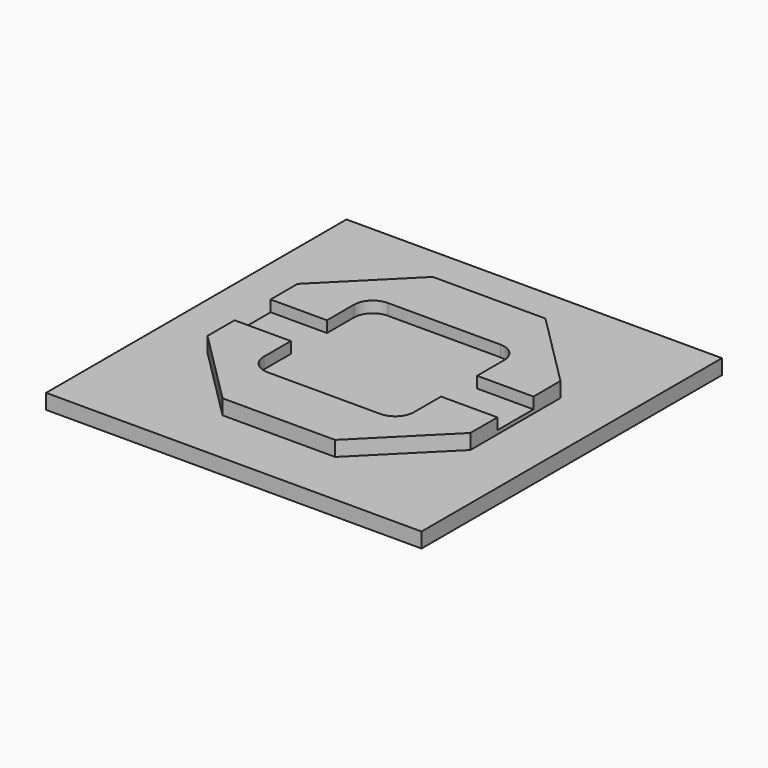
from build123d import *

# Parameters (mm, degrees)
F0_W     = 100
F0_H     = 100
F1_DEPTH = 4
F3_DEPTH = 4
F5_DEPTH = 3


with BuildPart() as f1:
    # F0 (on Top) → F1 (new body)
    with BuildSketch(Plane.XY):
        Rectangle(F0_W, F0_H)
    extrude(amount=F1_DEPTH)

    # F2 (on face) → F3 (join)
    with BuildSketch(Plane.XY.offset(4)):
        Polygon((35, -15), (35, 15), (15, 35), (0, 35), (-15, 35), (-35, 15), (-35, -15), (-15, -35), (0, -35), (15, -35), align=None)
    extrude(amount=F3_DEPTH)

    # F4 (on face) → F5 (cut)
    with BuildSketch(Plane.XY.offset(8)):
        with BuildLine():
            Line((15, 20), (-15, 20))
            ThreePointArc((-15, 20), (-18.535534, 18.535534), (-20, 15))
            Line((-20, 15), (-20, 6))
            Line((-20, 6), (-35, 6))
            Line((-35, 6), (-35, -6))
            Line((-35, -6), (-20, -6))
            Line((-20, -6), (-20, -15))
            ThreePointArc((-20, -15), (-18.535534, -18.535534), (-15, -20))
            Line((-15, -20), (15, -20))
            ThreePointArc((15, -20), (18.535534, -18.535534), (20, -15))
            Line((20, -15), (20, -6))
            Line((20, -6), (35, -6))
            Line((35, -6), (35, 6))
            Line((35, 6), (20, 6))
            Line((20, 6), (20, 15))
            ThreePointArc((20, 15), (18.535534, 18.535534), (15, 20))
        make_face()
    extrude(amount=-F5_DEPTH, mode=Mode.SUBTRACT)


solid = f1.part
